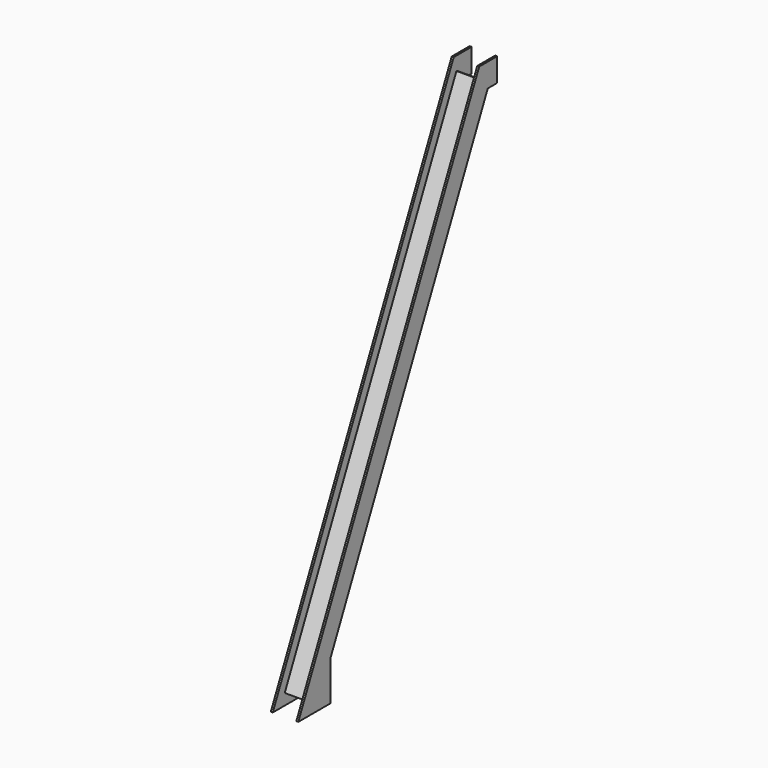
from build123d import *

# Parameters (mm, degrees)
F2_DEPTH      = 1
F5_DEPTH      = 6
F5_DEPTH_BACK = 6


with BuildPart() as f2:
    # F1 (on offset) → F2 (new body)
    with BuildSketch(Plane.YZ.offset(-7)):
        Polygon((115.177992, 247), (0, 0), (20.359932, 0), (20.359932, 20), (120.616079, 235), (126.616079, 235), (126.616079, 247), align=None)
    extrude(amount=F2_DEPTH)



with BuildPart() as f3_1:
    # F3: instance of F2
    add(f2.part.mirror(Plane.YZ))


with BuildPart() as f2_1:
    add(f2.part)

    add(f3_1.part)  # F5 merges F3_1
    # F4 (on Right) → F5 (join, two sides)
    with BuildSketch(Plane.YZ) as f5_sk:
        Polygon((117.834365, 239.682502), (116.928057, 240.10512), (7.607535, 5.666504), (8.513843, 5.243886), align=None)
    extrude(amount=F5_DEPTH)
    extrude(f5_sk.sketch, amount=-F5_DEPTH_BACK)


solid = f2_1.part
